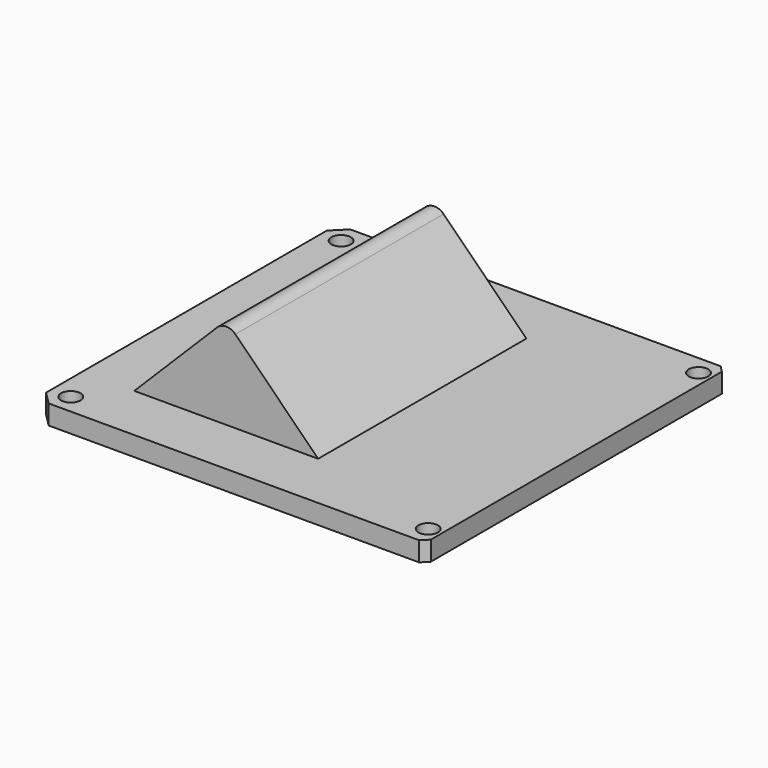
from build123d import *

# Parameters (mm, degrees)
F0_W      = 76.2
F0_H      = 73.66
F0_R      = 1.905
F1_DEPTH  = 3.81
F2_SIZE   = 1.27
F3_SIZE   = 2.54
F5_DEPTH  = 73.66
F6_R      = 7.94385
F6_R_2    = 0.79375
F7_DEPTH  = 49.3924086659
F9_W      = 45.7835
F9_H      = 20.9296
F9_W_2    = 45.2755
F9_H_2    = 20.4216
F9_R      = 0.79375
F10_DEPTH = 25.4
F12_DEPTH = 76.201
F13_R     = 2.54


with BuildPart() as f1:
    # F0 (on Top) → F1 (new body)
    with BuildSketch(Plane.XY):
        with Locations((-41.9906750321, 50.2695810336)):
            Rectangle(F0_W, F0_H)
        with Locations((-76.2806750321, 17.2495810336)):
            Circle(F0_R, mode=Mode.SUBTRACT)
        with Locations((-6.4306750321, 17.2495810336)):
            Circle(F0_R, mode=Mode.SUBTRACT)
        with Locations((-76.2806750321, 83.2895810336)):
            Circle(F0_R, mode=Mode.SUBTRACT)
        with Locations((-6.4306750321, 83.2895810336)):
            Circle(F0_R, mode=Mode.SUBTRACT)
    extrude(amount=F1_DEPTH)

    # F2
    f2_edges = [f1.edges().sort_by_distance(p)[0] for p in [
        (-3.890675, 13.439581, 1.905),
        (-3.890675, 87.099581, 1.905),
    ]]
    chamfer(f2_edges, length=F2_SIZE)

    # F3
    f3_edges = [f1.edges().sort_by_distance(p)[0] for p in [
        (-80.090675, 13.439581, 1.905),
        (-80.090675, 87.099581, 1.905),
    ]]
    chamfer(f3_edges, length=F3_SIZE)

    # F4 (on face) → F5 (join, through all)
    with BuildSketch(Plane.XZ.offset(-13.4395810336)):
        Polygon((-51.97016279, 21.7705122421), (-69.9306750321, 3.81), (-34.0096505479, 3.81), align=None)
    extrude(amount=-F5_DEPTH)

    # F6 (on face) → F7 (cut, through all)
    with BuildSketch(Plane(origin=(-36.8703375161, 0, 36.8703375161), x_dir=(0, -1, 0), z_dir=(-0.7071067812, 0, 0.7071067812))):
        with Locations((-62.9886310336, -34.2575776919)):
            Circle(F6_R)
        with Locations((-37.5505310336, -34.2575776919)):
            Circle(F6_R)
        with Locations((-29.1558310336, -25.5707776919)):
            Circle(F6_R_2)
        with Locations((-29.1558310336, -42.9443776919)):
            Circle(F6_R_2)
        with Locations((-71.3833310336, -42.9443776919)):
            Circle(F6_R_2)
        with Locations((-71.3833310336, -25.5707776919)):
            Circle(F6_R_2)
    extrude(amount=-F7_DEPTH, mode=Mode.SUBTRACT)

    # F9 (on offset) → F10 (cut)
    with BuildSketch(Plane(origin=(-28.2492916398, 0, 28.2492916398), x_dir=(0, -1, 0), z_dir=(-0.7071067812, 0, 0.7071067812))):
        with Locations((-50.2695810336, -34.2575776919)):
            Rectangle(F9_W, F9_H)
        with Locations((-50.2695810336, -34.2575776919)):
            Rectangle(F9_W_2, F9_H_2, mode=Mode.SUBTRACT)
        with Locations((-50.2695810336, -34.2575776919)):
            Rectangle(F9_W_2, F9_H_2)
        with Locations((-71.3833310336, -42.9443776919)):
            Circle(F9_R, mode=Mode.SUBTRACT)
        with Locations((-29.1558310336, -42.9443776919)):
            Circle(F9_R, mode=Mode.SUBTRACT)
        with Locations((-71.3833310336, -25.5707776919)):
            Circle(F9_R, mode=Mode.SUBTRACT)
        with Locations((-29.1558310336, -25.5707776919)):
            Circle(F9_R, mode=Mode.SUBTRACT)
        with Locations((-29.1558310336, -25.5707776919)):
            Circle(F9_R)
        with Locations((-29.1558310336, -42.9443776919)):
            Circle(F9_R)
        with Locations((-71.3833310336, -42.9443776919)):
            Circle(F9_R)
        with Locations((-71.3833310336, -25.5707776919)):
            Circle(F9_R)
    extrude(amount=-F10_DEPTH, mode=Mode.SUBTRACT)

    # F11 (on face) → F12 (cut, through all)
    with BuildSketch(Plane(origin=(-80.0906750321, 0, 0), x_dir=(0, -1, 0), z_dir=(-1, 0, 0))):
        Polygon((-84.5595810336, 3.81), (-75.7013310336, 3.81), (-75.7013310336, 27.0840693265), (-94.177685678, 27.0840693265), (-93.6518386006, 3.81), align=None)
        Polygon((-24.8378310336, 27.0840693265), (-24.8378310336, 3.81), (-15.9795810336, 3.81), (-6.8873234665, 3.81), (-6.3614763892, 27.0840693265), align=None)
    extrude(amount=-F12_DEPTH, mode=Mode.SUBTRACT)

    # F13
    f13_edges = [f1.edges().sort_by_distance(p)[0] for p in [
        (-51.970163, 50.269581, 21.770512),
    ]]
    fillet(f13_edges, radius=F13_R)


solid = f1.part
